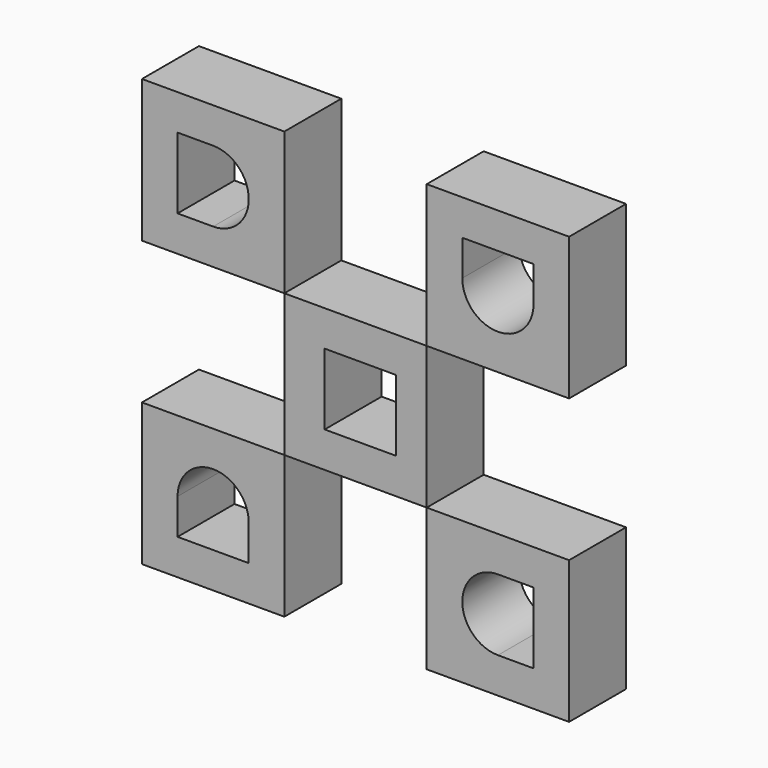
from build123d import *

# Parameters (mm, degrees)
F0_W     = 50.8
F0_H     = 50.8
F1_DEPTH = 25.4


with BuildPart() as f1:
    # F0 (on Front) → F1 (new body)
    with BuildSketch(Plane.XZ):
        with Locations((-1.693333, 0)):
            Rectangle(F0_W, F0_H)
        Polygon((-12.7, 0), (-12.7, 12.7), (0, 12.7), (12.7, 12.7), (12.7, 0), (12.7, -12.7), (0, -12.7), (-12.7, -12.7), align=None, mode=Mode.SUBTRACT)
        with Locations((49.106667, -50.8)):
            Rectangle(F0_W, F0_H)
        with BuildLine():
            ThreePointArc((49.106667, -63.5), (36.406667, -50.8), (49.106667, -38.1))
            Line((49.106667, -38.1), (61.806667, -38.1))
            Line((61.806667, -38.1), (61.806667, -50.8))
            Line((61.806667, -50.8), (61.806667, -63.5))
            Line((61.806667, -63.5), (49.106667, -63.5))
        make_face(mode=Mode.SUBTRACT)
        with Locations((-52.493333, -50.8)):
            Rectangle(F0_W, F0_H)
        with BuildLine():
            Line((-39.793333, -50.8), (-39.793333, -63.5))
            Line((-39.793333, -63.5), (-52.493333, -63.5))
            Line((-52.493333, -63.5), (-65.193333, -63.5))
            Line((-65.193333, -63.5), (-65.193333, -50.8))
            ThreePointArc((-65.193333, -50.8), (-52.493333, -38.1), (-39.793333, -50.8))
        make_face(mode=Mode.SUBTRACT)
        with Locations((-52.493333, 50.8)):
            Rectangle(F0_W, F0_H)
        with BuildLine():
            ThreePointArc((-39.793333, 50.8), (-43.513077, 41.819744), (-52.493333, 38.1))
            Line((-52.493333, 38.1), (-65.193333, 38.1))
            Line((-65.193333, 38.1), (-65.193333, 50.8))
            Line((-65.193333, 50.8), (-65.193333, 63.5))
            Line((-65.193333, 63.5), (-52.493333, 63.5))
            ThreePointArc((-52.493333, 63.5), (-43.513077, 59.780256), (-39.793333, 50.8))
        make_face(mode=Mode.SUBTRACT)
        with Locations((49.106667, 50.8)):
            Rectangle(F0_W, F0_H)
        with BuildLine():
            Line((49.106667, 63.5), (61.806667, 63.5))
            Line((61.806667, 63.5), (61.806667, 50.8))
            ThreePointArc((61.806667, 50.8), (49.106667, 38.1), (36.406667, 50.8))
            Line((36.406667, 50.8), (36.406667, 63.5))
            Line((36.406667, 63.5), (49.106667, 63.5))
        make_face(mode=Mode.SUBTRACT)
    extrude(amount=F1_DEPTH)


solid = f1.part
